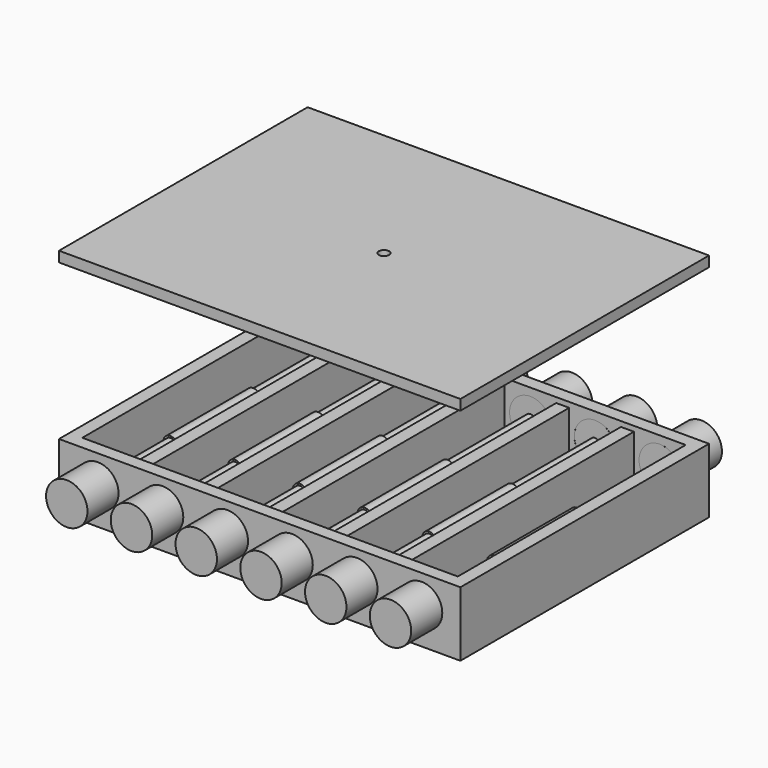
from build123d import *

# Parameters (mm, degrees)
F0_W      = 77.5
F0_H      = 60
F1_DEPTH  = 12.5
F2_W      = 10
F2_H      = 55
F3_DEPTH  = 10
F4_R      = 4
F5_DEPTH  = 2.5
F6_W      = 72.5
F6_H      = 55
F7_DEPTH  = 1
F10_W     = 77.5
F10_H     = 60
F11_DEPTH = 2
F13_D     = 1.9939
F14_R     = 1
F15_DEPTH = 55
F16_R     = 1.35
F17_DEPTH = 20
F24_R     = 4
F25_DEPTH = 10


with BuildPart() as f1:
    # F0 (on Top) → F1 (new body)
    with BuildSketch(Plane.XY):
        Rectangle(F0_W, F0_H)
    extrude(amount=F1_DEPTH)

    # F2 (on face) → F3 (cut)
    with BuildSketch(Plane.XY.offset(12.5)):
        with Locations((-31.25, 0)):
            Rectangle(F2_W, F2_H)
        with Locations((31.25, 0)):
            Rectangle(F2_W, F2_H)
        with Locations((-18.75, 0)):
            Rectangle(F2_W, F2_H)
        with Locations((-6.25, 0)):
            Rectangle(F2_W, F2_H)
        with Locations((18.75, 0)):
            Rectangle(F2_W, F2_H)
        with Locations((6.25, 0)):
            Rectangle(F2_W, F2_H)
    extrude(amount=-F3_DEPTH, mode=Mode.SUBTRACT)

    # F6 (on face) → F7 (cut)
    with BuildSketch(Plane.XY.offset(12.5)):
        Rectangle(F6_W, F6_H)
    extrude(amount=-F7_DEPTH, mode=Mode.SUBTRACT)


with BuildPart() as f5:
    # F4 (on face) → F5 (new body, through all)
    with BuildSketch(Plane.XZ.offset(30)):
        with Locations((-31.25, 7)):
            Circle(F4_R)
    extrude(amount=-F5_DEPTH)


with BuildPart() as f5b:
    # F4 (on face) → F5, piece 2 (new body, through all)
    with BuildSketch(Plane.XZ.offset(30)):
        with Locations((-18.75, 7)):
            Circle(F4_R)
    extrude(amount=-F5_DEPTH)


with BuildPart() as f5c:
    # F4 (on face) → F5, piece 3 (new body, through all)
    with BuildSketch(Plane.XZ.offset(30)):
        with Locations((-6.25, 7)):
            Circle(F4_R)
    extrude(amount=-F5_DEPTH)


with BuildPart() as f5d:
    # F4 (on face) → F5, piece 4 (new body, through all)
    with BuildSketch(Plane.XZ.offset(30)):
        with Locations((6.25, 7)):
            Circle(F4_R)
    extrude(amount=-F5_DEPTH)


with BuildPart() as f5e:
    # F4 (on face) → F5, piece 5 (new body, through all)
    with BuildSketch(Plane.XZ.offset(30)):
        with Locations((18.75, 7)):
            Circle(F4_R)
    extrude(amount=-F5_DEPTH)


with BuildPart() as f5f:
    # F4 (on face) → F5, piece 6 (new body, through all)
    with BuildSketch(Plane.XZ.offset(30)):
        with Locations((31.25, 7)):
            Circle(F4_R)
    extrude(amount=-F5_DEPTH)


with BuildPart() as f8_1:
    # F8: instance of F5
    add(f5.part.mirror(Plane.XZ))


with BuildPart() as f8_2:
    # F8: instance of F5b
    add(f5b.part.mirror(Plane.XZ))


with BuildPart() as f8_3:
    # F8: instance of F5c
    add(f5c.part.mirror(Plane.XZ))


with BuildPart() as f8_4:
    # F8: instance of F5e
    add(f5e.part.mirror(Plane.XZ))


with BuildPart() as f8_5:
    # F8: instance of F5f
    add(f5f.part.mirror(Plane.XZ))


with BuildPart() as f8_6:
    # F8: instance of F5d
    add(f5d.part.mirror(Plane.XZ))


with BuildPart() as f1_1:
    add(f1.part)

    # F9: cut F5, F8_1, F5b, F5c, F5d, F5e, F5f, F8_2, F8_3, F8_6, F8_4, F8_5
    add(f5.part, mode=Mode.SUBTRACT)
    add(f8_1.part, mode=Mode.SUBTRACT)
    add(f5b.part, mode=Mode.SUBTRACT)
    add(f5c.part, mode=Mode.SUBTRACT)
    add(f5d.part, mode=Mode.SUBTRACT)
    add(f5e.part, mode=Mode.SUBTRACT)
    add(f5f.part, mode=Mode.SUBTRACT)
    add(f8_2.part, mode=Mode.SUBTRACT)
    add(f8_3.part, mode=Mode.SUBTRACT)
    add(f8_6.part, mode=Mode.SUBTRACT)
    add(f8_4.part, mode=Mode.SUBTRACT)
    add(f8_5.part, mode=Mode.SUBTRACT)


with BuildPart() as f11:
    # F10 (on face) → F11 (new body)
    with BuildSketch(Plane.XY.offset(12.5)):
        Rectangle(F10_W, F10_H)
    extrude(amount=F11_DEPTH)


with BuildPart() as f11_1:
    # F12: moved
    add(f11.part.moved(Location((0, 0, 30))))

    # F13 (through all)
    with Locations(Plane(origin=(0, 0, 12.5), x_dir=(1, 0, 0), z_dir=(0, 0, -1))):
        with Locations((0, 0)):
            Hole(F13_D / 2)


with BuildPart() as f15:
    # F14 (on face) → F15 (new body, through all)
    with BuildSketch(Plane.XZ.offset(-27.5)):
        with Locations((-18.75, 7)):
            Circle(F14_R)
    extrude(amount=F15_DEPTH)


with BuildPart() as f17:
    # F16 (on face) → F17 (new body)
    with BuildSketch(Plane.XZ.offset(27.5)):
        with Locations((-18.75, 7)):
            Circle(F16_R)
    extrude(amount=-F17_DEPTH)


with BuildPart() as f17_1:
    # F18: moved
    add(f17.part.moved(Location((0, 15, 0))))


with BuildPart() as f19_1:
    # F19: copy of F15
    add(f15.part)


with BuildPart() as f19_2:
    # F19: copy of F17
    add(f17_1.part)


with BuildPart() as f19_2_1:
    # F20: moved
    add(f19_2.part.moved(Location((12.5, 0, 0))))


with BuildPart() as f19_1_1:
    # F20: moved
    add(f19_1.part.moved(Location((12.5, 0, 0))))


with BuildPart() as f21_1:
    # F21: copy of F15
    add(f15.part)


with BuildPart() as f21_2:
    # F21: copy of F17
    add(f17_1.part)


with BuildPart() as f21_2_1:
    # F22: moved
    add(f21_2.part.moved(Location((-12.5, 0, 0))))


with BuildPart() as f21_1_1:
    # F22: moved
    add(f21_1.part.moved(Location((-12.5, 0, 0))))


with BuildPart() as f23_1:
    # F23: instance of F15
    add(f15.part.mirror(Plane.YZ))


with BuildPart() as f23_2:
    # F23: instance of F17
    add(f17_1.part.mirror(Plane.YZ))


with BuildPart() as f23_3:
    # F23: instance of F21_1
    add(f21_1_1.part.mirror(Plane.YZ))


with BuildPart() as f23_4:
    # F23: instance of F21_2
    add(f21_2_1.part.mirror(Plane.YZ))


with BuildPart() as f23_5:
    # F23: instance of F19_1
    add(f19_1_1.part.mirror(Plane.YZ))


with BuildPart() as f23_6:
    # F23: instance of F19_2
    add(f19_2_1.part.mirror(Plane.YZ))


with BuildPart() as f25:
    # F24 (on face) → F25 (new body)
    with BuildSketch(Plane(origin=(0, 30, 0), x_dir=(-1, 0, 0), z_dir=(0, 1, 0))):
        with Locations((-31.25, 7)):
            Circle(F24_R)
    extrude(amount=F25_DEPTH)


with BuildPart() as f25_1:
    # F26: moved
    add(f25.part.moved(Location((0, -2.5, 0))))


with BuildPart() as f27_1:
    # F27: instance of F25
    add(f25_1.part.mirror(Plane.XZ))


with BuildPart() as f28_1:
    # F28: instance of F25
    add(f25_1.part.mirror(Plane.YZ))


with BuildPart() as f28_2:
    # F28: instance of F27_1
    add(f27_1.part.mirror(Plane.YZ))


with BuildPart() as f29_1:
    # F29: copy of F28_1
    add(f28_1.part.moved(Location((12.5, 0, 0))))


with BuildPart() as f29_2:
    # F29: copy of F28_2
    add(f28_2.part.moved(Location((12.5, 0, 0))))


with BuildPart() as f30_1:
    # F30: copy of F29_1
    add(f29_1.part.moved(Location((12.5, 0, 0))))


with BuildPart() as f30_2:
    # F30: copy of F29_2
    add(f29_2.part.moved(Location((12.5, 0, 0))))


with BuildPart() as f31_1:
    # F31: instance of F30_2
    add(f30_2.part.mirror(Plane.YZ))


with BuildPart() as f31_2:
    # F31: instance of F30_1
    add(f30_1.part.mirror(Plane.YZ))


with BuildPart() as f31_3:
    # F31: instance of F29_1
    add(f29_1.part.mirror(Plane.YZ))


with BuildPart() as f31_4:
    # F31: instance of F29_2
    add(f29_2.part.mirror(Plane.YZ))


solid = Compound([f1_1.part, f11_1.part, f15.part, f17_1.part, f19_2_1.part, f19_1_1.part, f21_2_1.part, f21_1_1.part, f23_1.part, f23_2.part, f23_3.part, f23_4.part, f23_5.part, f23_6.part, f25_1.part, f27_1.part, f28_1.part, f28_2.part, f29_1.part, f29_2.part, f30_1.part, f30_2.part, f31_1.part, f31_2.part, f31_3.part, f31_4.part])
